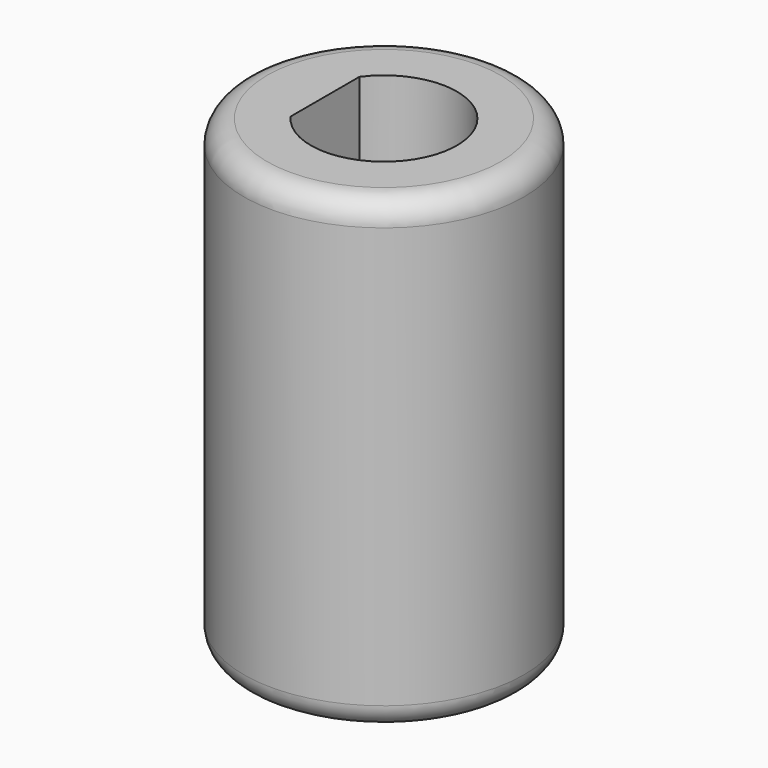
from build123d import *

# Parameters (mm, degrees)
F0_R     = 6
F1_DEPTH = 20
F2_DEPTH = 10
F4_DEPTH = 25
F5_R     = 1


with BuildPart() as f1:
    # F0 (on Top) → F1 (new body)
    with BuildSketch(Plane.XY):
        Circle(F0_R)
        with BuildLine():
            ThreePointArc((-2.525, 1.841195), (3.125, 0), (-2.525, -1.841195))
            Line((-2.525, -1.841195), (-2.525, 1.841195))
        make_face(mode=Mode.SUBTRACT)
    extrude(amount=F1_DEPTH)

    # F0 (on Top) → F2 (join)
    with BuildSketch(Plane.XY):
        with BuildLine():
            Line((-2.525, 1.841195), (-2.525, -1.841195))
            ThreePointArc((-2.525, -1.841195), (3.125, 0), (-2.525, 1.841195))
        make_face()
    extrude(amount=F2_DEPTH)

    # F3 (on face) → F4 (cut)
    with BuildSketch(Plane(origin=(0, 0, 0), x_dir=(1, 0, 0), z_dir=(0, 0, -1))):
        with BuildLine():
            Line((-2.1, 1.356466), (-2.1, -1.356466))
            ThreePointArc((-2.1, -1.356466), (2.5, 0), (-2.1, 1.356466))
        make_face()
    extrude(amount=-F4_DEPTH, mode=Mode.SUBTRACT)

    # F5
    f5_edges = [f1.edges().sort_by_distance(p)[0] for p in [
        (-6, 0, 20),
        (-6, 0, 0),
    ]]
    fillet(f5_edges, radius=F5_R)


solid = f1.part
